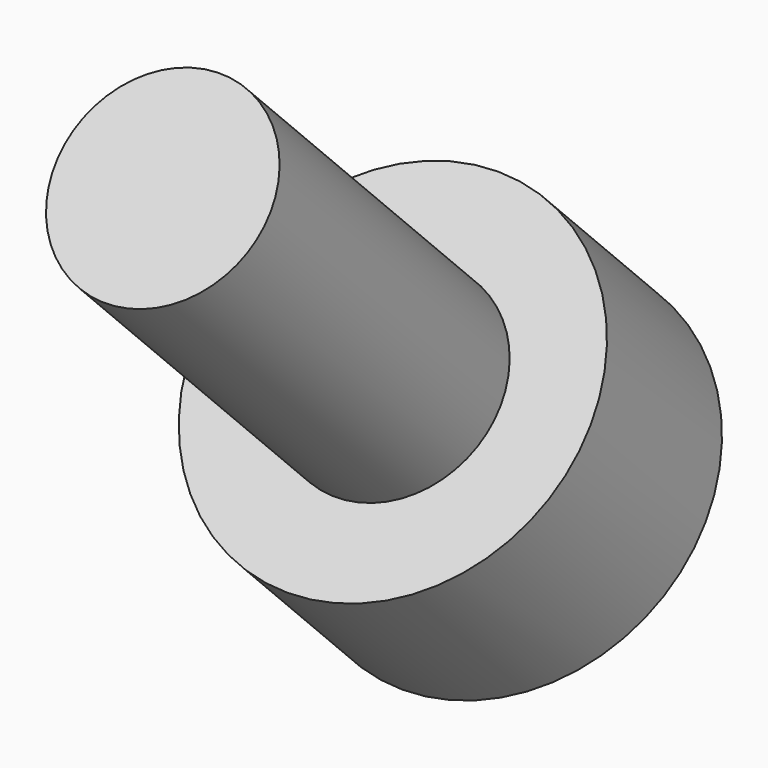
from build123d import *

# Parameters (mm, degrees)
SKETCH036_R             = 2.75
PAD021_DEPTH            = 3
SKETCH037_R             = 1.5
PAD022_DEPTH            = 6
POCKET017_DEPTH         = 4
BODY010_PLACEMENT_ANGLE = 225


with BuildPart() as part:
    # Sketch036 → Pad021 (new body)
    with BuildSketch(Plane.XY):
        Circle(SKETCH036_R)
    extrude(amount=PAD021_DEPTH)

    # Sketch037 (on Face2 of Pad021) → Pad022 (join)
    with BuildSketch(Plane(origin=(0, 0, 0), x_dir=(1, 0, 0), z_dir=(0, 0, -1))):
        Circle(SKETCH037_R)
    extrude(amount=PAD022_DEPTH)

    # Sketch038 (on DatumPlane) → Pocket017 (cut)
    with BuildSketch(Plane.XY.offset(3)):
        Polygon((0.721688, -1.25), (1.443376, 0), (0.721688, 1.25), (-0.721688, 1.25), (-1.443376, 0), (-0.721688, -1.25), align=None)
    extrude(amount=-POCKET017_DEPTH, mode=Mode.SUBTRACT)


with BuildPart() as part_1:
    # Body010 placement: moved
    add(part.part.moved(Location((-43.5, -61.871843, 6.010408))).rotate(Axis((-43.5, -61.871843, 6.010408), (1, 0, 0)), BODY010_PLACEMENT_ANGLE))


solid = part_1.part
